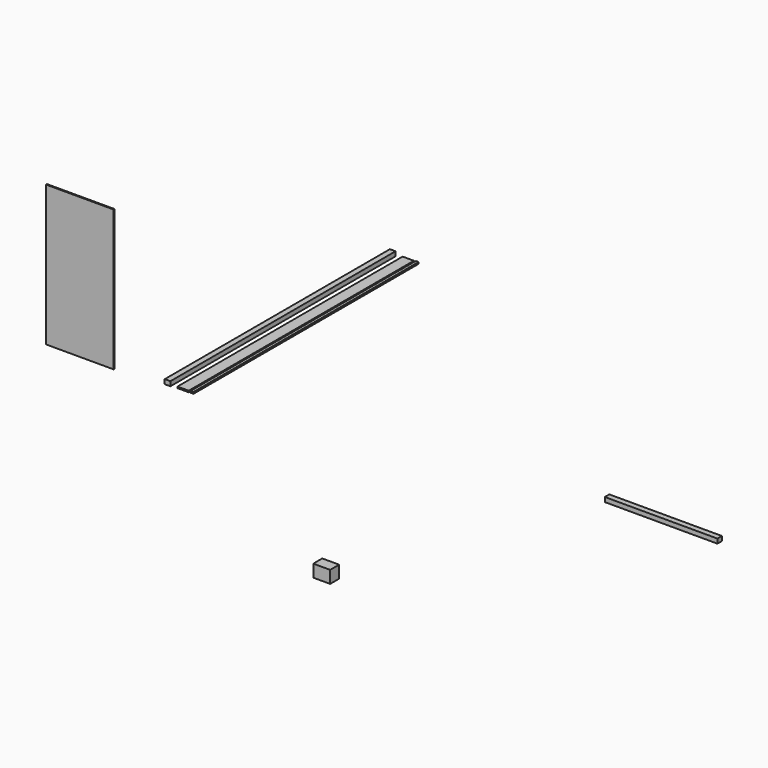
from build123d import *

# Parameters (mm, degrees)
F2_W     = 100
F2_H     = 80
F2_W_2   = 200
F2_H_2   = 25
F2_W_3   = 50
F2_H_3   = 30
F3_DEPTH = 5000
F1_W     = 2000
F1_H     = 80
F4_DEPTH = 100
F5_DEPTH = 200
F2_W_4   = 1200
F2_H_4   = 2500
F6_DEPTH = 20


with BuildPart() as f3:
    # F2 (on Front) → F3 (new body)
    with BuildSketch(Plane.XZ):
        with Locations((-4371.527469, 1854.102281)):
            Rectangle(F2_W, F2_H)
        with Locations((-4095.813154, 1838.863437)):
            Rectangle(F2_W_2, F2_H_2)
        with Locations((-3936.527457, 1844.42879)):
            Rectangle(F2_W_3, F2_H_3)
    extrude(amount=-F3_DEPTH)


with BuildPart() as f4:
    # F1 (on Front) → F4 (new body)
    with BuildSketch(Plane.XZ):
        with Locations((4476.884699, 2620)):
            Rectangle(F1_W, F1_H)
    extrude(amount=F4_DEPTH)


with BuildPart() as f5:
    # F1 (on Front) → F5 (new body)
    with BuildSketch(Plane.XZ):
        Polygon((-1523.115301, 0), (-1623.115301, 0), (-1623.115301, -220), (-1323.115301, -220), (-1323.115301, 0), (-1423.115301, 0), align=None)
    extrude(amount=F5_DEPTH)


with BuildPart() as f6:
    # F2 (on Front) → F6 (new body)
    with BuildSketch(Plane.XZ):
        with Locations((-5913.625145, 3014.206886)):
            Rectangle(F2_W_4, F2_H_4)
    extrude(amount=F6_DEPTH)


solid = Compound([f3.part, f4.part, f5.part, f6.part])
